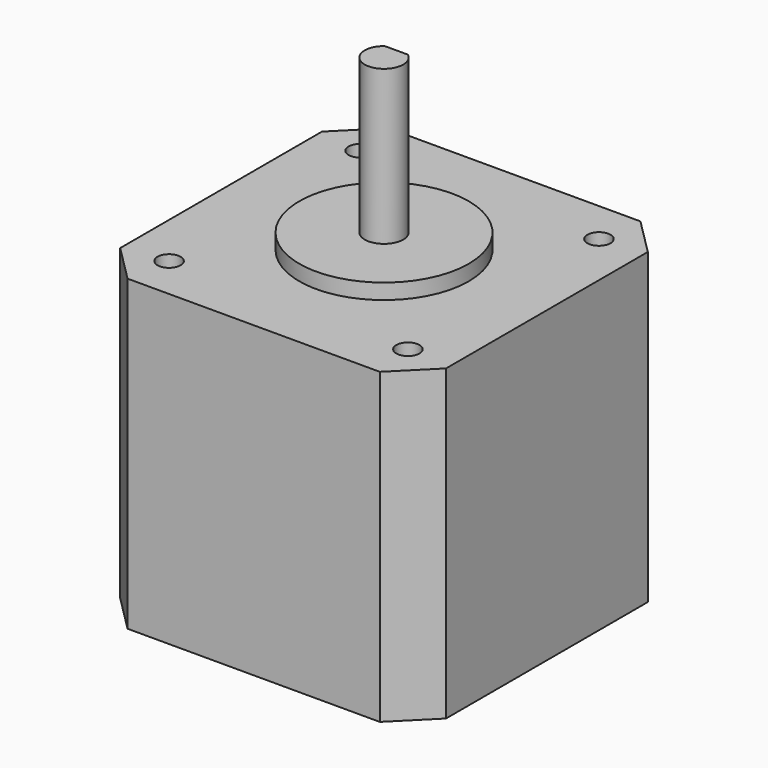
from build123d import *

# Parameters (mm, degrees)
F0_W      = 42.291
F0_H      = 42.291
F1_DEPTH  = 40.005
F2_SIZE   = 4.7752
F3_R      = 11
F4_DEPTH  = 2
F5_R      = 2.5
F6_DEPTH  = 22
F8_DEPTH  = 15
F10_D     = 3
F10_DEPTH = 4.4958
F10_TIP   = 0.9012909285


with BuildPart() as f1:
    # F0 (on Top) → F1 (new body)
    with BuildSketch(Plane.XY):
        Rectangle(F0_W, F0_H)
    extrude(amount=F1_DEPTH)

    # F2
    f2_edges = [f1.edges().sort_by_distance(p)[0] for p in [
        (21.1455, -21.1455, 20.0025),
        (21.1455, 21.1455, 20.0025),
        (-21.1455, 21.1455, 20.0025),
        (-21.1455, -21.1455, 20.0025),
    ]]
    chamfer(f2_edges, length=F2_SIZE)

    # F3 (on face) → F4 (join)
    with BuildSketch(Plane.XY.offset(40.005)):
        Circle(F3_R)
    extrude(amount=F4_DEPTH)

    # F5 (on face) → F6 (join)
    with BuildSketch(Plane.XY.offset(40.005)):
        Circle(F5_R)
    extrude(amount=F6_DEPTH)

    # F7 (on face) → F8 (cut)
    with BuildSketch(Plane.XY.offset(62.005)):
        with BuildLine():
            ThreePointArc((1.5, 2), (0.790569415, 2.3717082451), (0, 2.5))
            ThreePointArc((0, 2.5), (-0.790569415, 2.3717082451), (-1.5, 2))
            Line((-1.5, 2), (1.5, 2))
        make_face()
    extrude(amount=-F8_DEPTH, mode=Mode.SUBTRACT)

    # F10
    with Locations(Plane.XY.offset(40.005)):
        with Locations((-15.5, 15.5), (-15.5, -15.5), (15.5, -15.5), (15.5, 15.5)):
            Hole(F10_D / 2, depth=F10_DEPTH)
            with Locations((0, 0, -(F10_DEPTH + F10_TIP / 2))):  # 118° drill point
                Cone(0, F10_D / 2, F10_TIP, mode=Mode.SUBTRACT)


solid = f1.part
